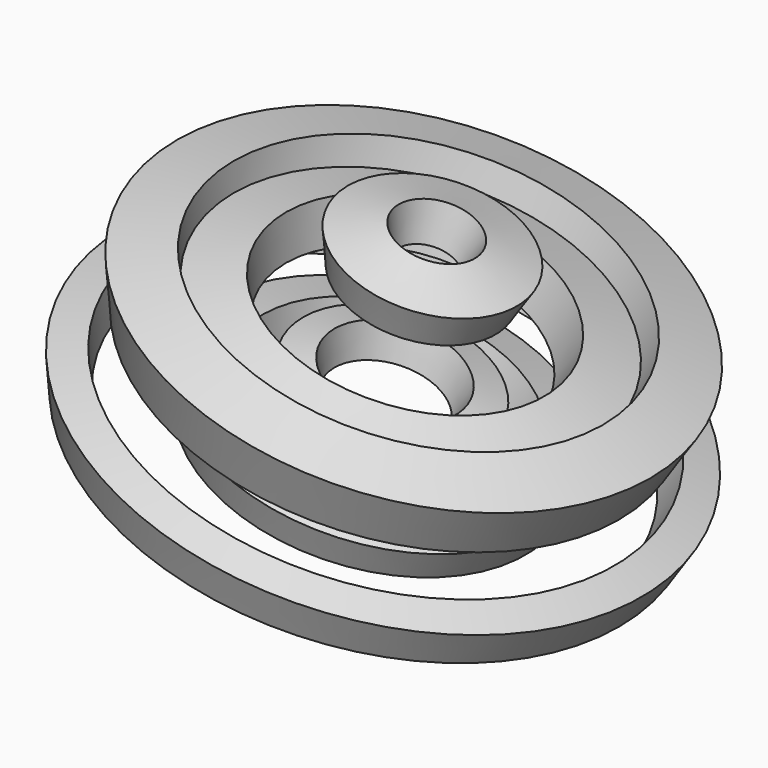
from build123d import *

# Parameters (mm, degrees)
F0_W   = 23.616995
F0_H   = 25.964152
F0_W_2 = 38.421668
F0_H_2 = 29.092759
F0_W_3 = 10.34955
F0_H_3 = 21.266434
F0_W_4 = 25.026955
F0_H_4 = 30.492026
F0_W_5 = 32.076804
F0_H_5 = 25.284476


with BuildPart() as f1:
    # F0 (on Front) → F1 (revolve)
    with BuildSketch(Plane.XZ):
        with Locations((46.705241, -44.854844)):
            Rectangle(F0_W, F0_H)
        with Locations((87.946843, 52.177488)):
            Rectangle(F0_W_2, F0_H_2)
        Polygon((21.854531, 33.803266), (-17.624618, 33.803266), (-17.624618, 12.536832), (-27.974168, 12.536832), (-27.974168, 0), (21.854531, 0), align=None)
        with Locations((-22.799393, 23.170049)):
            Rectangle(F0_W_3, F0_H_3)
        with Locations((-87.946843, -31.204192)):
            Rectangle(F0_W_4, F0_H_4)
        with Locations((-11.808495, -52.757751)):
            Rectangle(F0_W_5, F0_H_5)
        Polygon((-17.624618, 55.111434), (-60.62869, 55.111434), (-60.62869, 12.536832), (-27.974168, 12.536832), (-27.974168, 33.803266), (-17.624618, 33.803266), align=None)
    revolve(axis=Axis((116.057582, 0, -7.045915), (-0.291293, 0, -0.956634)))


solid = f1.part
